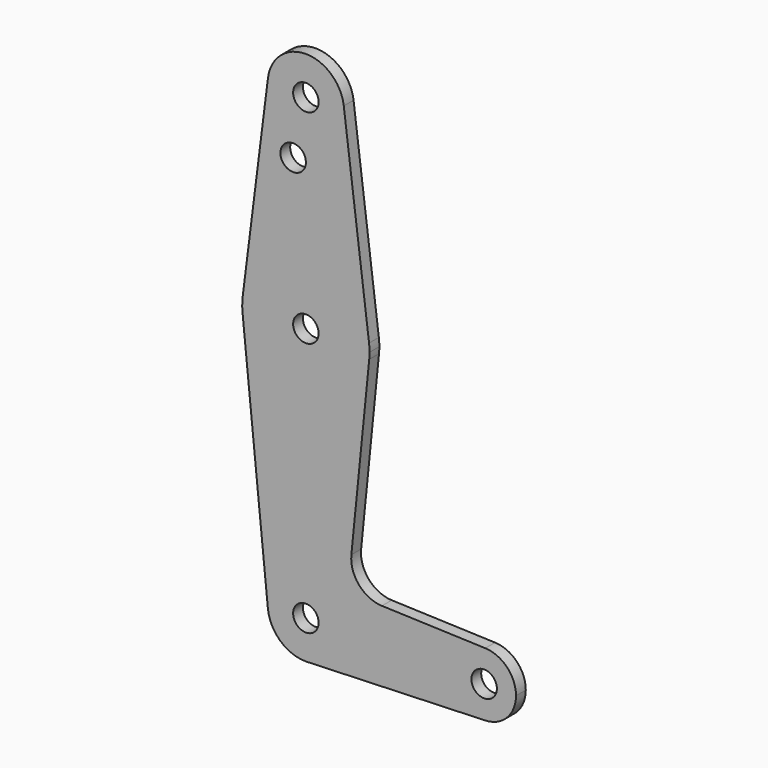
from build123d import *

# Parameters (mm, degrees)
F0_R     = 3.175
F1_DEPTH = 3.048


with BuildPart() as f1:
    # F0 (on Front) → F1 (new body)
    with BuildSketch(Plane.XZ):
        with BuildLine():
            ThreePointArc((-9.450293, 65.672847), (-0.596483, 54.975917), (9.525, 64.482222))
            ThreePointArc((9.525, 64.482222), (9.506305, 65.078705), (9.450293, 65.672847))
            ThreePointArc((9.450293, 65.672847), (0, 74.007222), (-9.450293, 65.672847))
        make_face()
        with Locations((0, 64.482222)):
            Circle(F0_R, mode=Mode.SUBTRACT)
        with BuildLine():
            ThreePointArc((9.450293, 65.672847), (9.506305, 65.078705), (9.525, 64.482222))
            ThreePointArc((9.525, 64.482222), (-0.596483, 54.975917), (-9.450293, 65.672847))
            Line((-9.450293, 65.672847), (-15.750488, 15.666597))
            ThreePointArc((-15.750488, 15.666597), (0, 29.557222), (15.750488, 15.666597))
            Line((15.750488, 15.666597), (9.450293, 65.672847))
        make_face()
        with Locations((-3.175, 50.207422)):
            Circle(F0_R, mode=Mode.SUBTRACT)
        with BuildLine():
            ThreePointArc((15.875, 13.682222), (15.843841, 14.676361), (15.750488, 15.666597))
            ThreePointArc((15.750488, 15.666597), (0, 29.557222), (-15.750488, 15.666597))
            ThreePointArc((-15.750488, 15.666597), (-15.873744, 13.881928), (-15.795426, 12.094722))
            ThreePointArc((-15.795426, 12.094722), (0, -2.192778), (15.795426, 12.094722))
            ThreePointArc((15.795426, 12.094722), (15.855094, 12.887476), (15.875, 13.682222))
        make_face()
        with Locations((0, 13.682222)):
            Circle(F0_R, mode=Mode.SUBTRACT)
        with BuildLine():
            ThreePointArc((15.795426, 12.094722), (0, -2.192778), (-15.795426, 12.094722))
            Line((-15.795426, 12.094722), (-9.477255, -50.770278))
            ThreePointArc((-9.477255, -50.770278), (-0.476848, -40.304722), (9.525, -49.817778))
            ThreePointArc((9.525, -49.817778), (6.970557, -56.309077), (0.677344, -59.318664))
            Line((0.677344, -59.318664), (44.732405, -57.750252))
            ThreePointArc((44.732405, -57.750252), (36.5125, -49.817828), (44.732305, -41.8853))
            Line((44.732305, -41.8853), (18.968396, -40.968401))
            ThreePointArc((18.968396, -40.968401), (13.261204, -38.250678), (11.340803, -32.228211))
            Line((11.340803, -32.228211), (15.795426, 12.094722))
        make_face()
        with BuildLine():
            ThreePointArc((9.525, -49.817778), (-0.476848, -40.304722), (-9.477255, -50.770278))
            ThreePointArc((-9.477255, -50.770278), (-6.389564, -56.881707), (0, -59.342778))
            Line((0, -59.342778), (0.677344, -59.318664))
            ThreePointArc((0.677344, -59.318664), (6.970557, -56.309077), (9.525, -49.817778))
        make_face()
        with Locations((0, -49.817778)):
            Circle(F0_R, mode=Mode.SUBTRACT)
        with BuildLine():
            Line((0.677344, -59.318664), (0, -59.342778))
            ThreePointArc((0, -59.342778), (0.338886, -59.336747), (0.677344, -59.318664))
        make_face()
        with BuildLine():
            ThreePointArc((52.3875, -49.817778), (50.161598, -44.305831), (44.732305, -41.8853))
            ThreePointArc((44.732305, -41.8853), (36.5125, -49.817828), (44.732405, -57.750252))
            ThreePointArc((44.732405, -57.750252), (50.161633, -55.329688), (52.3875, -49.817778))
        make_face()
        with Locations((44.45, -49.817778)):
            Circle(F0_R, mode=Mode.SUBTRACT)
    extrude(amount=F1_DEPTH)


solid = f1.part
